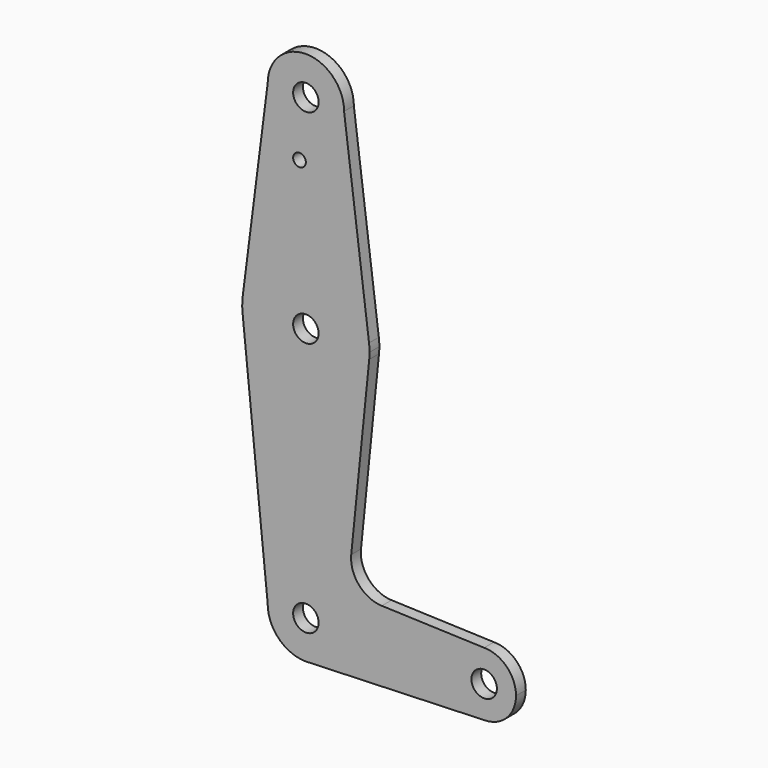
from build123d import *

# Parameters (mm, degrees)
F0_R     = 3.175
F0_R_2   = 1.5875
F1_DEPTH = 3.048


with BuildPart() as f1:
    # F0 (on Front) → F1 (new body)
    with BuildSketch(Plane.XZ):
        with BuildLine():
            ThreePointArc((-9.525, 76.589497), (0, 67.064497), (9.525, 76.589497))
            ThreePointArc((9.525, 76.589497), (0, 86.114497), (-9.525, 76.589497))
        make_face()
        with Locations((0, 76.589497)):
            Circle(F0_R, mode=Mode.SUBTRACT)
        with BuildLine():
            Line((15.747457, 27.797787), (9.525, 76.589497))
            ThreePointArc((9.525, 76.589497), (0, 67.064497), (-9.525, 76.589497))
            Line((-9.525, 76.589497), (-15.747457, 27.797787))
            ThreePointArc((-15.747457, 27.797787), (-10.491283, 37.703716), (0, 41.664497))
            ThreePointArc((0, 41.664497), (10.491283, 37.703716), (15.747457, 27.797787))
        make_face()
        with Locations((-1.5875, 62.314697)):
            Circle(F0_R_2, mode=Mode.SUBTRACT)
        with BuildLine():
            ThreePointArc((3.175, 25.789497), (2.245064, 28.034561), (0, 28.964497))
            ThreePointArc((0, 28.964497), (-2.245064, 23.544433), (3.175, 25.789497))
        make_face()
        with BuildLine():
            ThreePointArc((15.875, 25.789497), (15.843082, 26.795665), (15.747457, 27.797787))
            ThreePointArc((15.747457, 27.797787), (10.491283, 37.703716), (0, 41.664497))
            ThreePointArc((0, 41.664497), (-10.491283, 37.703716), (-15.747457, 27.797787))
            ThreePointArc((-15.747457, 27.797787), (-15.87368, 25.994191), (-15.794007, 24.187941))
            ThreePointArc((-15.794007, 24.187941), (0.000973, 9.914497), (15.794203, 24.189878))
            ThreePointArc((15.794203, 24.189878), (15.854788, 24.988668), (15.875, 25.789497))
        make_face()
        with BuildLine():
            ThreePointArc((3.175, 25.789497), (-2.245064, 23.544433), (0, 28.964497))
            ThreePointArc((0, 28.964497), (2.245064, 28.034561), (3.175, 25.789497))
        make_face(mode=Mode.SUBTRACT)
        with BuildLine():
            ThreePointArc((15.794203, 24.189878), (0.000973, 9.914497), (-15.794007, 24.187941))
            Line((-15.794007, 24.187941), (-9.524721, -37.637633))
            ThreePointArc((-9.524721, -37.637633), (0.036435, -28.185572), (9.525, -37.710503))
            ThreePointArc((9.525, -37.710503), (6.970557, -44.201802), (0.677344, -47.211389))
            Line((0.677344, -47.211389), (44.732405, -45.642977))
            ThreePointArc((44.732405, -45.642977), (36.513756, -37.851728), (44.45, -29.773003))
            Line((44.45, -29.773003), (18.932989, -28.861681))
            ThreePointArc((18.932989, -28.861681), (13.224463, -26.141319), (11.307007, -20.115457))
            Line((11.307007, -20.115457), (15.794203, 24.189878))
        make_face()
        with BuildLine():
            ThreePointArc((9.525, -37.710503), (0.036435, -28.185572), (-9.524721, -37.637633))
            ThreePointArc((-9.524721, -37.637633), (-6.760906, -44.419882), (0, -47.235503))
            Line((0, -47.235503), (0.677344, -47.211389))
            ThreePointArc((0.677344, -47.211389), (6.970557, -44.201802), (9.525, -37.710503))
        make_face()
        with Locations((0, -37.710503)):
            Circle(F0_R, mode=Mode.SUBTRACT)
        with BuildLine():
            Line((0.677344, -47.211389), (0, -47.235503))
            ThreePointArc((0, -47.235503), (0.338886, -47.229472), (0.677344, -47.211389))
        make_face()
        with BuildLine():
            ThreePointArc((52.3875, -37.710503), (50.06266, -32.097843), (44.45, -29.773003))
            ThreePointArc((44.45, -29.773003), (36.513756, -37.851728), (44.732405, -45.642977))
            ThreePointArc((44.732405, -45.642977), (50.161633, -43.222413), (52.3875, -37.710503))
        make_face()
        with Locations((44.45, -37.710503)):
            Circle(F0_R, mode=Mode.SUBTRACT)
    extrude(amount=F1_DEPTH)


solid = f1.part
